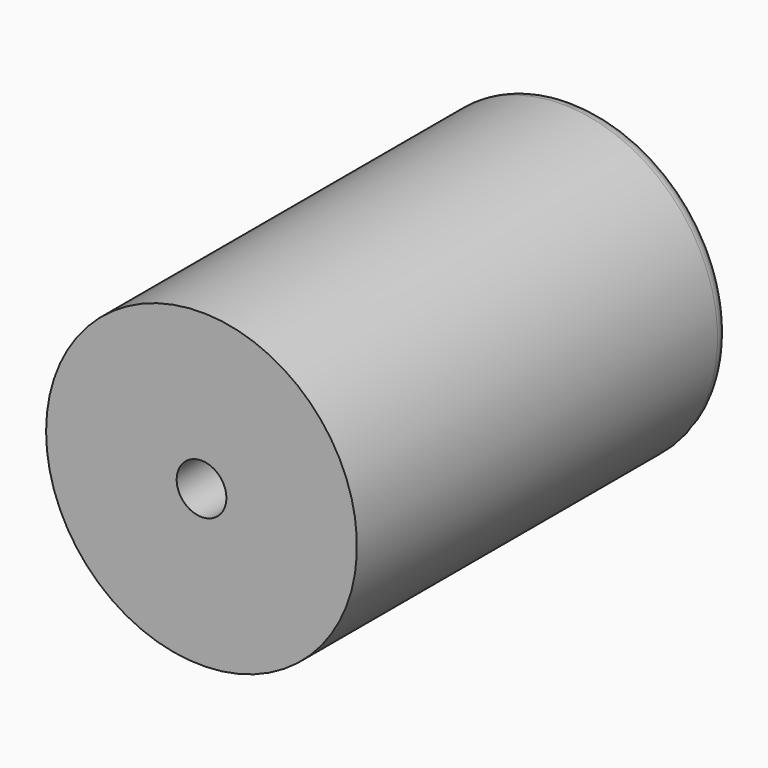
from build123d import *


with BuildPart() as f1:
    # F0 (on Top) → F1 (revolve)
    with BuildSketch(Plane.XY):
        with BuildLine():
            Line((-10, 0), (-1.6, 0))
            Line((-1.6, 0), (-1.6, 10))
            Line((-1.6, 10), (-5, 10))
            Line((-5, 10), (-5, 29))
            ThreePointArc((-5, 29), (-5.292893, 29.707107), (-6, 30))
            Line((-6, 30), (-9, 30))
            ThreePointArc((-9, 30), (-9.707107, 29.707107), (-10, 29))
            Line((-10, 29), (-10, 0))
        make_face()
    revolve(axis=Axis((0, 5.870081, 0), (0, 1, 0)))


solid = f1.part
